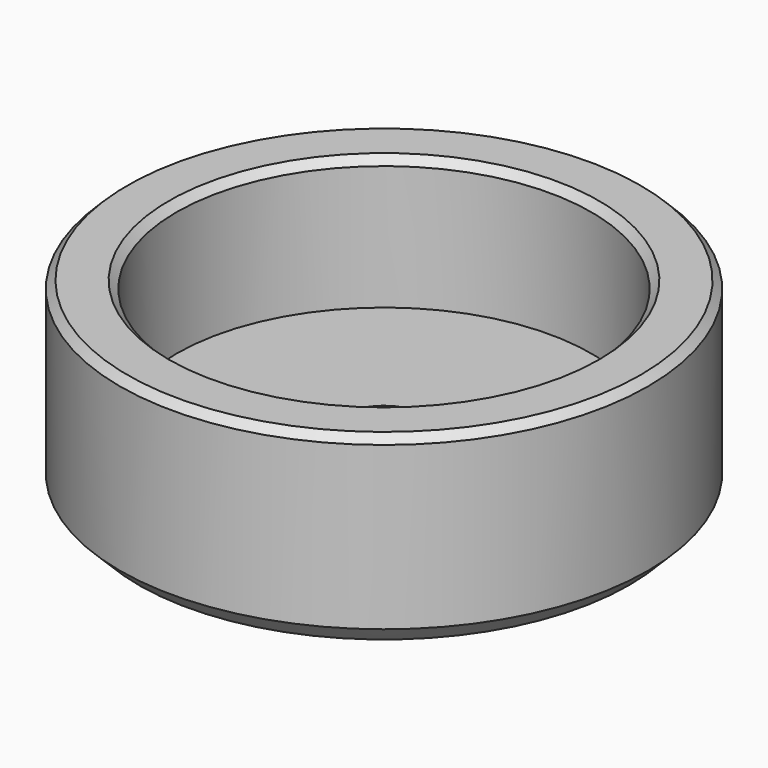
from build123d import *

# Parameters (mm, degrees)
F0_R     = 70
F1_DEPTH = 50
F2_R     = 55
F3_DEPTH = 35
F4_SIZE  = 5
F5_SIZE  = 2
F7_D     = 22
F7_DEPTH = 30
F7_TIP   = 6.6094668093


with BuildPart() as f1:
    # F0 (on Top) → F1 (new body)
    with BuildSketch(Plane.XY):
        Circle(F0_R)
    extrude(amount=F1_DEPTH)

    # F2 (on face) → F3 (cut)
    with BuildSketch(Plane.XY.offset(50)):
        Circle(F2_R)
    extrude(amount=-F3_DEPTH, mode=Mode.SUBTRACT)

    # F4
    f4_edges = [f1.edges().sort_by_distance(p)[0] for p in [
        (-70, 0, 0),
    ]]
    chamfer(f4_edges, length=F4_SIZE)

    # F5
    f5_edges = [f1.edges().sort_by_distance(p)[0] for p in [
        (-70, 0, 50),
        (-55, 0, 50),
    ]]
    chamfer(f5_edges, length=F5_SIZE)

    # F7
    with Locations(Plane(origin=(0, 0, 0), x_dir=(1, 0, 0), z_dir=(0, 0, -1))):
        with Locations((0, 0)):
            Hole(F7_D / 2, depth=F7_DEPTH)
            with Locations((0, 0, -(F7_DEPTH + F7_TIP / 2))):  # 118° drill point
                Cone(0, F7_D / 2, F7_TIP, mode=Mode.SUBTRACT)


solid = f1.part
